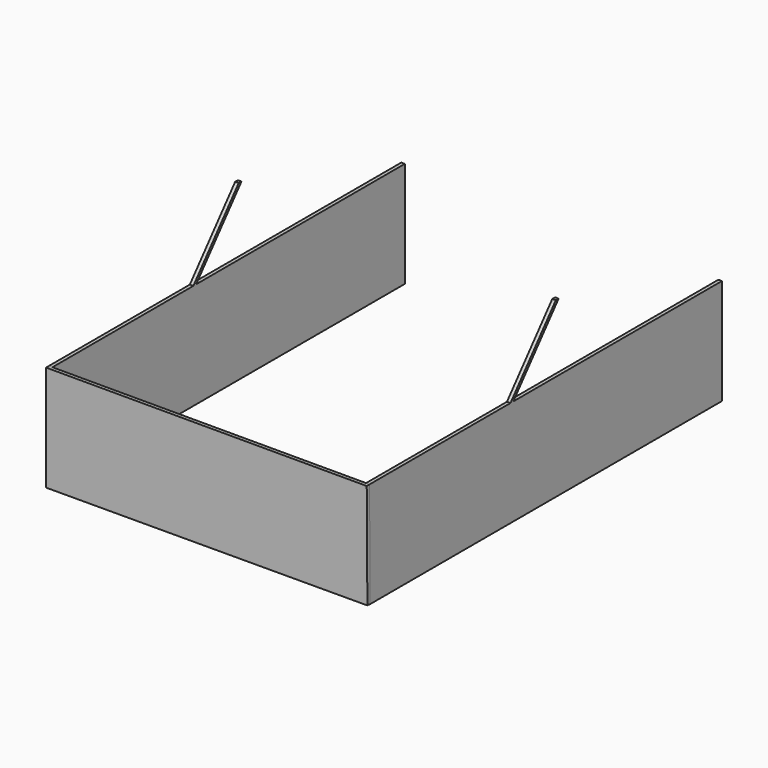
from build123d import *

# Parameters (mm, degrees)
F1_DEPTH = 2
F4_DEPTH = 2


with BuildPart() as f1:
    # F0 (on Right) → F1 (new body)
    with BuildSketch(Plane.YZ):
        Polygon((-171.5163805998, -17.4364356661), (-171.5163805998, -77.4364356661), (78.4836194002, -77.4364356661), (78.4836194002, -17.4364356661), (-69.5163805998, -17.4364356661), (-37.3770001155, 20.8657864898), (-39.3770001155, 20.8657864898), (-71.5163805998, -17.4364356661), align=None)
    extrude(amount=F1_DEPTH)


with BuildPart() as f2_1:
    # F2: copy of F1
    add(f1.part.moved(Location((-180, 0, 0))))


with BuildPart() as f4:
    # F3 (on face) → F4 (new body)
    with BuildSketch(Plane.XZ.offset(171.5163805998)):
        Polygon((-178, -17.4364356661), (-180, -17.4364356661), (-180, -77.4364356661), (-178, -77.4316239544), align=None)
        Polygon((2.0001572557, -17.4364356661), (-178, -17.4364356661), (-178, -77.4316239544), (2.3626759648, -76.9976973534), align=None)
    extrude(amount=F4_DEPTH)


solid = Compound([f1.part, f2_1.part, f4.part])
